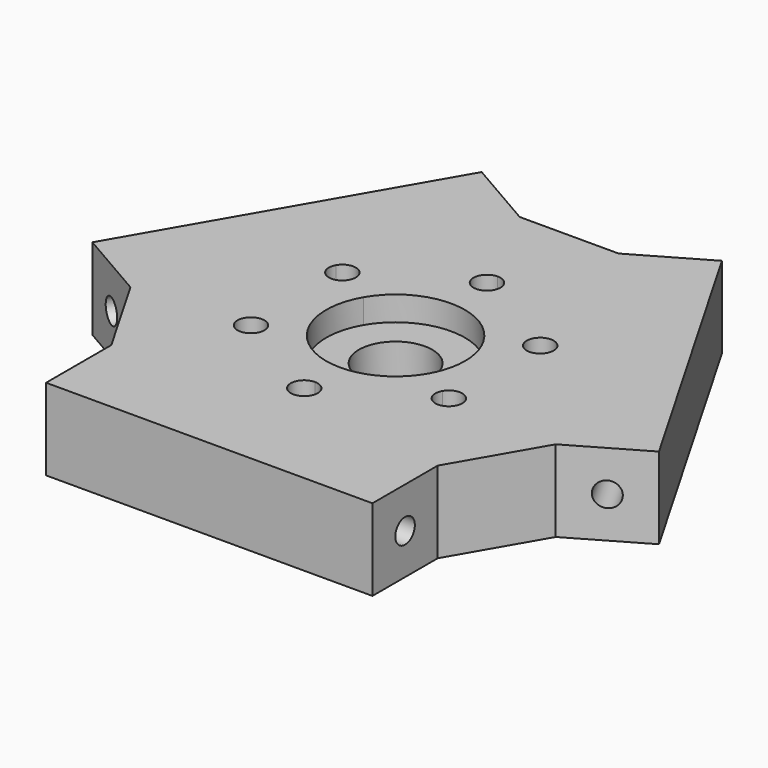
from build123d import *

# Parameters (mm, degrees)
F1_DEPTH  = 10
F2_DEPTH  = 17
F3_DEPTH  = 17
F4_DEPTH  = 17
F5_R      = 4.5
F6_DEPTH  = 25
F7_DEPTH  = 3
F8_SIZE   = 7
F9_R      = 1.5
F10_DEPTH = 45.3
F11_R     = 1.5
F12_DEPTH = 40
F13_R     = 1.5
F14_DEPTH = 40


with BuildPart() as f1:
    # F0 (on Top) → F1 (new body)
    with BuildSketch(Plane.XY):
        Polygon((20, 34.6410161514), (0, 0), (40, 0), align=None)
    extrude(amount=F1_DEPTH)

    # F2 (add): a face of the model
    f2_faces = [f1.faces().sort_by_distance(p)[0] for p in [
        (10, 17.3205080757, 5),
    ]]
    extrude(f2_faces, amount=F2_DEPTH)

    # F3 (add): a face of the model
    f3_faces = [f1.faces().sort_by_distance(p)[0] for p in [
        (30, 17.3205080757, 5),
    ]]
    extrude(f3_faces, amount=F3_DEPTH)

    # F4 (add): a face of the model
    f4_faces = [f1.faces().sort_by_distance(p)[0] for p in [
        (20, 0, 5),
    ]]
    extrude(f4_faces, amount=F4_DEPTH)

    # F5 (on face) → F6 (cut)
    with BuildSketch(Plane.XY.offset(10)):
        with BuildLine():
            ThreePointArc((9.525644347, 18.5470053838), (8.3026957714, 20.1407829972), (6.4467024308, 19.3720053838))
            ThreePointArc((6.4467024308, 19.3720053838), (7.050644347, 17.1180634675), (9.3045862633, 17.7220053838))
            ThreePointArc((9.3045862633, 17.7220053838), (9.4694219604, 18.1199539594), (9.525644347, 18.5470053838))
        make_face()
        with BuildLine():
            ThreePointArc((21.65, 25.5470053838), (21.166726189, 26.7137315728), (20, 27.1970053838))
            ThreePointArc((20, 27.1970053838), (18.833273811, 24.3802791948), (21.65, 25.5470053838))
        make_face()
        with BuildLine():
            ThreePointArc((33.774355653, 18.5470053838), (33.7181332664, 18.9740568082), (33.5532975692, 19.3720053838))
            ThreePointArc((33.5532975692, 19.3720053838), (31.299355653, 19.9759473), (30.6954137367, 17.7220053838))
            ThreePointArc((30.6954137367, 17.7220053838), (32.5514070774, 16.9532277704), (33.774355653, 18.5470053838))
        make_face()
        with BuildLine():
            ThreePointArc((30.6954137367, 5.3720053838), (31.299355653, 3.1180634675), (33.5532975692, 3.7220053838))
            ThreePointArc((33.5532975692, 3.7220053838), (33.7181332664, 4.1199539594), (33.774355653, 4.5470053838))
            ThreePointArc((33.774355653, 4.5470053838), (32.5514070774, 6.1407829972), (30.6954137367, 5.3720053838))
        make_face()
        with BuildLine():
            ThreePointArc((20, -0.8029946162), (18.35, -2.4529946162), (20, -4.1029946162))
            ThreePointArc((20, -4.1029946162), (21.166726189, -3.6197208052), (21.65, -2.4529946162))
            ThreePointArc((21.65, -2.4529946162), (21.166726189, -1.2862684272), (20, -0.8029946162))
        make_face()
        with BuildLine():
            ThreePointArc((9.3045862633, 5.3720053838), (7.050644347, 5.9759473), (6.4467024308, 3.7220053838))
            ThreePointArc((6.4467024308, 3.7220053838), (8.3026957714, 2.9532277704), (9.525644347, 4.5470053838))
            ThreePointArc((9.525644347, 4.5470053838), (9.4694219604, 4.9740568082), (9.3045862633, 5.3720053838))
        make_face()
        with Locations((20, 11.5470053838)):
            Circle(F5_R)
    extrude(amount=-F6_DEPTH, mode=Mode.SUBTRACT)

    # F5 (on face) → F7 (cut)
    with BuildSketch(Plane.XY.offset(10)):
        with BuildLine():
            ThreePointArc((28.5, 11.5470053838), (28.2103695235, 13.7469672672), (27.3612159322, 15.7970053838))
            ThreePointArc((27.3612159322, 15.7970053838), (20, 20.0470053838), (12.6387840678, 15.7970053838))
            ThreePointArc((12.6387840678, 15.7970053838), (11.5, 11.5470053838), (12.6387840678, 7.2970053838))
            ThreePointArc((12.6387840678, 7.2970053838), (15.75, 4.1857894516), (20, 3.0470053838))
            ThreePointArc((20, 3.0470053838), (24.25, 4.1857894516), (27.3612159322, 7.2970053838))
            ThreePointArc((27.3612159322, 7.2970053838), (28.2103695235, 9.3470435004), (28.5, 11.5470053838))
        make_face()
        with Locations((20, 11.5470053838)):
            Circle(F5_R, mode=Mode.SUBTRACT)
    extrude(amount=-F7_DEPTH, mode=Mode.SUBTRACT)

    # F8
    f8_edges = [f1.edges().sort_by_distance(p)[0] for p in [
        (0, 0, 5),
        (40, 0, 5),
        (20, 34.641016, 5),
    ]]
    chamfer(f8_edges, length=F8_SIZE)

    # F9 (on face) → F10 (cut)
    with BuildSketch(Plane(origin=(0, 0, 0), x_dir=(0.8660254038, -0.5, 0), z_dir=(-0.5, -0.8660254038, 0))):
        with Locations((-12, 5)):
            Circle(F9_R)
    extrude(amount=-F10_DEPTH, mode=Mode.SUBTRACT)

    # F11 (on face) → F12 (cut)
    with BuildSketch(Plane(origin=(0, 0, 0), x_dir=(0, -1, 0), z_dir=(-1, 0, 0))):
        with Locations((12, 5)):
            Circle(F11_R)
    extrude(amount=-F12_DEPTH, mode=Mode.SUBTRACT)

    # F13 (on face) → F14 (cut)
    with BuildSketch(Plane(origin=(10, -17.3205080757, 0), x_dir=(0.8660254038, 0.5, 0), z_dir=(0.5, -0.8660254038, 0))):
        with Locations((46.6410161514, 5)):
            Circle(F13_R)
    extrude(amount=-F14_DEPTH, mode=Mode.SUBTRACT)


solid = f1.part
